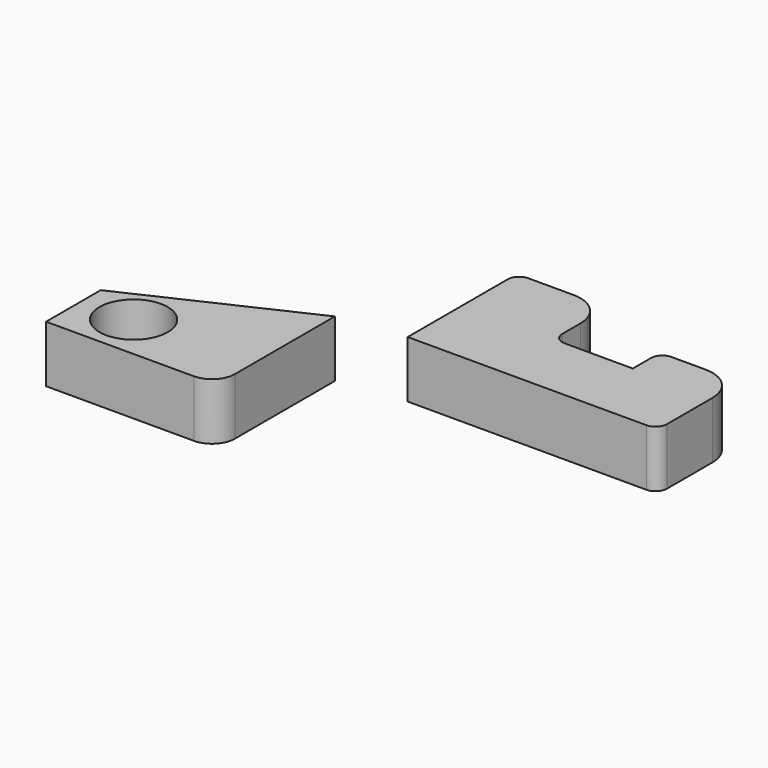
from build123d import *

# Parameters (mm, degrees)
F0_R     = 15
F1_DEPTH = 25
F2_DEPTH = 25


with BuildPart() as f1:
    # F0 (on Top) → F1 (new body)
    with BuildSketch(Plane.XY):
        with BuildLine():
            Line((-72.123656, 29.287633), (-72.123656, -25.712367))
            Line((-72.123656, -25.712367), (32.876344, -25.712367))
            ThreePointArc((32.876344, -25.712367), (36.411878, -24.247901), (37.876344, -20.712367))
            Line((37.876344, -20.712367), (37.876344, 4.287633))
            ThreePointArc((37.876344, 4.287633), (33.482945, 14.894234), (22.876344, 19.287633))
            Line((22.876344, 19.287633), (7.876344, 19.287633))
            ThreePointArc((7.876344, 19.287633), (4.34081, 17.823167), (2.876344, 14.287633))
            Line((2.876344, 14.287633), (2.876344, 4.287633))
            Line((2.876344, 4.287633), (-27.123656, 4.287633))
            ThreePointArc((-27.123656, 4.287633), (-30.65919, 5.752099), (-32.123656, 9.287633))
            Line((-32.123656, 9.287633), (-32.123656, 19.287633))
            ThreePointArc((-32.123656, 19.287633), (-36.517055, 29.894234), (-47.123656, 34.287633))
            Line((-47.123656, 34.287633), (-67.123656, 34.287633))
            ThreePointArc((-67.123656, 34.287633), (-70.65919, 32.823167), (-72.123656, 29.287633))
        make_face()
        with BuildLine():
            Line((-176.226614, -64.378541), (-176.226614, -94.378541))
            Line((-176.226614, -94.378541), (-111.226614, -94.378541))
            ThreePointArc((-111.226614, -94.378541), (-104.155546, -91.449609), (-101.226614, -84.378541))
            Line((-101.226614, -84.378541), (-101.226614, -29.378541))
            Line((-101.226614, -29.378541), (-176.226614, -64.378541))
        make_face()
        with Locations((-153.726614, -74.378541)):
            Circle(F0_R, mode=Mode.SUBTRACT)
    extrude(amount=F1_DEPTH)


with BuildPart() as f2:
    # F0 (on Top) → F2 (new body)
    with BuildSketch(Plane.XY):
        with BuildLine():
            Line((-72.123656, 29.287633), (-72.123656, -25.712367))
            Line((-72.123656, -25.712367), (32.876344, -25.712367))
            ThreePointArc((32.876344, -25.712367), (36.411878, -24.247901), (37.876344, -20.712367))
            Line((37.876344, -20.712367), (37.876344, 4.287633))
            ThreePointArc((37.876344, 4.287633), (33.482945, 14.894234), (22.876344, 19.287633))
            Line((22.876344, 19.287633), (7.876344, 19.287633))
            ThreePointArc((7.876344, 19.287633), (4.34081, 17.823167), (2.876344, 14.287633))
            Line((2.876344, 14.287633), (2.876344, 4.287633))
            Line((2.876344, 4.287633), (-27.123656, 4.287633))
            ThreePointArc((-27.123656, 4.287633), (-30.65919, 5.752099), (-32.123656, 9.287633))
            Line((-32.123656, 9.287633), (-32.123656, 19.287633))
            ThreePointArc((-32.123656, 19.287633), (-36.517055, 29.894234), (-47.123656, 34.287633))
            Line((-47.123656, 34.287633), (-67.123656, 34.287633))
            ThreePointArc((-67.123656, 34.287633), (-70.65919, 32.823167), (-72.123656, 29.287633))
        make_face()
        with BuildLine():
            Line((-176.226614, -64.378541), (-176.226614, -94.378541))
            Line((-176.226614, -94.378541), (-111.226614, -94.378541))
            ThreePointArc((-111.226614, -94.378541), (-104.155546, -91.449609), (-101.226614, -84.378541))
            Line((-101.226614, -84.378541), (-101.226614, -29.378541))
            Line((-101.226614, -29.378541), (-176.226614, -64.378541))
        make_face()
        with Locations((-153.726614, -74.378541)):
            Circle(F0_R, mode=Mode.SUBTRACT)
    extrude(amount=F2_DEPTH)


solid = Compound([f1.part, f2.part])
